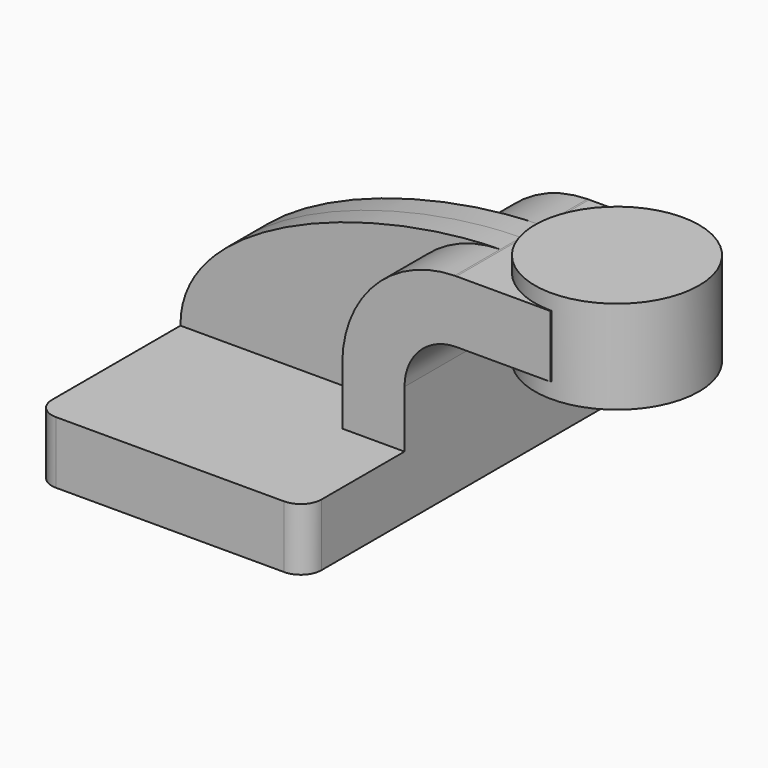
from build123d import *

# Parameters (mm, degrees)
F1_DEPTH = 63.5
F0_W     = 25.6695565462
F0_H     = 19.05
F2_DEPTH = 25.4
F3_DEPTH = 7.9375
F5_R     = 6.35


with BuildPart() as f1:
    # F0 (on Front) → F1 (new body, symmetric)
    with BuildSketch(Plane.XZ):
        Polygon((-41.275, -9.525), (41.275, -9.525), (41.275, 9.525), (22.225, 9.525), (-41.275, 9.525), align=None)
    extrude(amount=F1_DEPTH, both=True)

    # F0 (on Front) → F2 (join, symmetric)
    with BuildSketch(Plane.XZ):
        with BuildLine():
            Line((22.225, 9.525), (41.275, 9.525))
            Line((41.275, 9.525), (41.275, 27.0002))
            ThreePointArc((41.275, 27.0002), (45.9246798487, 38.2255201513), (57.15, 42.8752))
            Line((57.15, 42.8752), (60.325, 42.8752))
            Line((60.325, 42.8752), (60.325, 61.9252))
            Line((60.325, 61.9252), (57.15, 61.9252))
            add(Edge.make_bspline(
                [(56.6400088012, 61.9214762364), (56.8103246779, 61.9230843087), (56.9803236617, 61.9243258221), (57.15, 61.9252)],
                knots=[111.0351315252, 111.0351315252, 111.0351315252, 111.0351315252, 111.5045361635, 111.5045361635, 111.5045361635, 111.5045361635], degree=3))
            ThreePointArc((56.6400088012, 61.9214762364), (32.2746400266, 51.5149321256), (22.225, 27.0002))
            Line((22.225, 27.0002), (22.225, 9.525))
        make_face()
        with Locations((73.1597782731, 52.4002)):
            Rectangle(F0_W, F0_H)
        with Locations((73.1597782731, 52.4002)):
            Rectangle(F0_W, F0_H)
    extrude(amount=F2_DEPTH, both=True)

    # F0 (on Front) → F3 (join, symmetric)
    with BuildSketch(Plane.XZ):
        with BuildLine():
            add(Edge.make_bspline(
                [(-41.275, 9.525), (-41.6658055269, 40.650509894), (16.3527082061, 61.5410954073), (56.6400088012, 61.9214762364)],
                knots=[0, 0, 0, 0, 111.0351315252, 111.0351315252, 111.0351315252, 111.0351315252], degree=3))
            Line((-41.275, 9.525), (22.225, 9.525))
            Line((22.225, 9.525), (22.225, 27.0002))
            ThreePointArc((22.225, 27.0002), (32.2746400266, 51.5149321256), (56.6400088012, 61.9214762364))
        make_face()
    extrude(amount=F3_DEPTH, both=True)

    # F5
    f5_edges = [f1.edges().sort_by_distance(p)[0] for p in [
        (41.275, -63.5, 0),
        (-41.275, -63.5, 0),
        (41.275, 63.5, 0),
        (-41.275, 63.5, 0),
    ]]
    fillet(f5_edges, radius=F5_R)


with BuildPart() as f4:
    # F0 (on Front) → F4 (revolve)
    with BuildSketch(Plane.XZ):
        Polygon((85.9945565462, 61.9252), (85.9945565462, 42.8752), (85.9945565462, 38.1), (111.125, 38.1), (111.125, 66.675), (85.9945565462, 66.675), align=None)
    revolve(axis=Axis((85.9945565462, 0, 52.4002), (0, 0, -1)))


solid = Compound([f1.part, f4.part])
